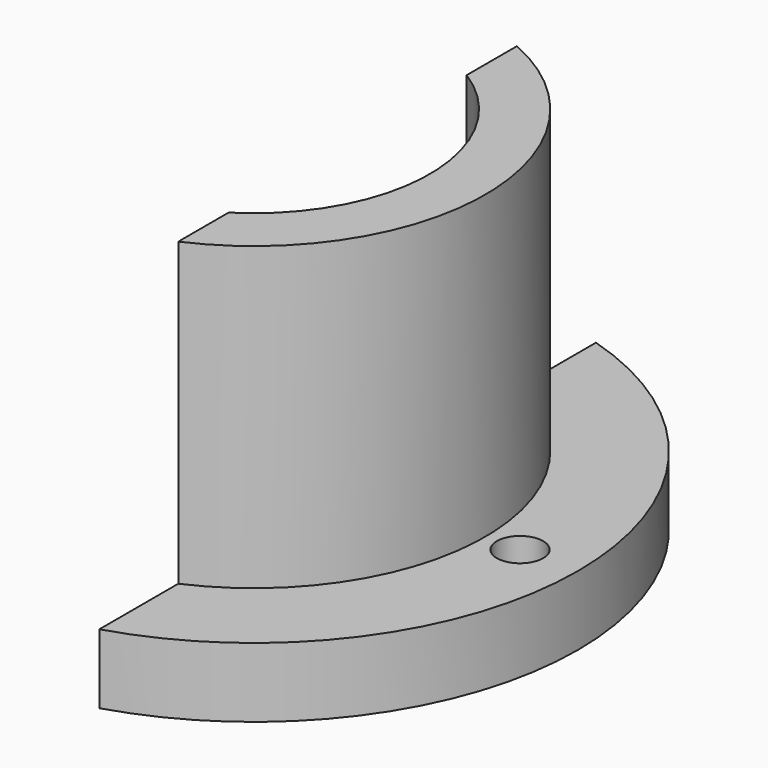
from build123d import *

# Parameters (mm, degrees)
SKETCH_R        = 70
PAD_DEPTH       = 15
SKETCH001_R     = 50
PAD001_DEPTH    = 80
SKETCH002_R     = 38
POCKET_DEPTH    = 150
SKETCH003_R     = 5
POCKET001_DEPTH = 100
SKETCH004_W     = 113.045652
SKETCH004_H     = 208.901421
POCKET002_DEPTH = 150


with BuildPart() as part:
    # Sketch → Pad (new body)
    with BuildSketch(Plane.XY):
        Circle(SKETCH_R)
    extrude(amount=PAD_DEPTH)

    # Sketch001 → Pad001 (join)
    with BuildSketch(Plane.XY):
        Circle(SKETCH001_R)
    extrude(amount=PAD001_DEPTH)

    # Sketch002 (on Face6 of Pad001) → Pocket (cut)
    with BuildSketch(Plane.XY.offset(80)):
        Circle(SKETCH002_R)
    extrude(amount=-POCKET_DEPTH, mode=Mode.SUBTRACT)

    # Sketch003 (on Face3 of Pocket) → Pocket001 (cut)
    with BuildSketch(Plane.XY.offset(15)):
        with Locations((57.5, 0)):
            Circle(SKETCH003_R)
    extrude(amount=-POCKET001_DEPTH, mode=Mode.SUBTRACT)

    # Sketch004 (on DatumPlane) → Pocket002 (cut)
    with BuildSketch(Plane.XY.offset(80)):
        with Locations((-36.229188, 6.106403)):
            Rectangle(SKETCH004_W, SKETCH004_H)
    extrude(amount=-POCKET002_DEPTH, mode=Mode.SUBTRACT)


solid = part.part
